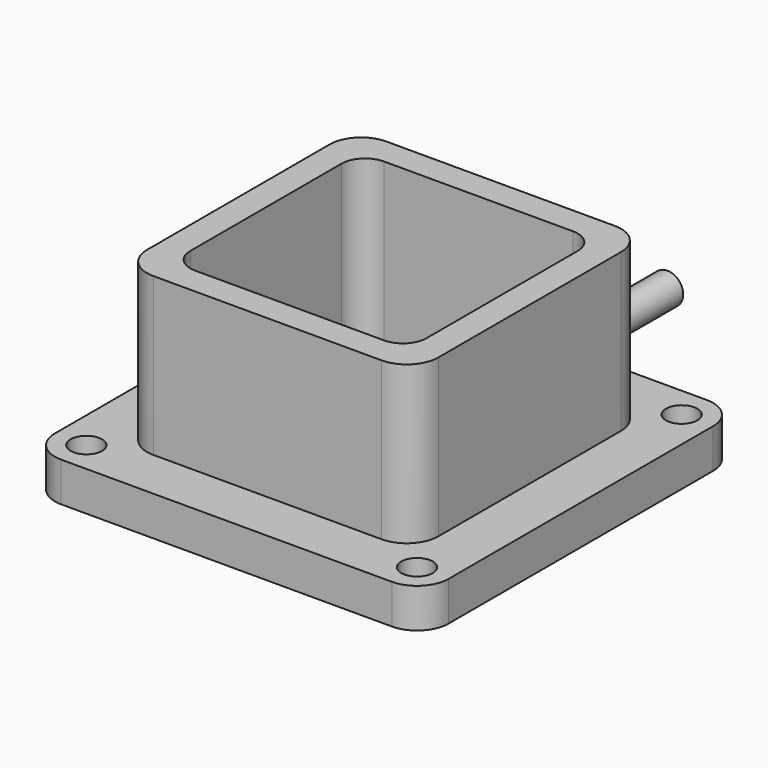
from build123d import *

# Parameters (mm, degrees)
F0_W     = 63.5
F0_H     = 63.5
F1_DEPTH = 6.35
F2_R     = 5.08
F4_D     = 5.08
F5_R     = 2.54
F6_DEPTH = 25.4
F7_W     = 46.99
F7_H     = 46.99
F7_W_2   = 38.1
F7_H_2   = 38.1
F8_DEPTH = 25.4
F9_R     = 5.08
F10_R    = 3.81


with BuildPart() as f1:
    # F0 (on Top) → F1 (new body)
    with BuildSketch(Plane.XY):
        Rectangle(F0_W, F0_H)
    extrude(amount=F1_DEPTH)

    # F2
    f2_edges = [f1.edges().sort_by_distance(p)[0] for p in [
        (-31.75, -31.75, 3.175),
        (31.75, -31.75, 3.175),
        (31.75, 31.75, 3.175),
        (-31.75, 31.75, 3.175),
    ]]
    fillet(f2_edges, radius=F2_R)

    # F4 (through all)
    with Locations(Plane.XY.offset(6.35)):
        with Locations((-26.67, 26.67), (26.67, 26.67), (26.67, -26.67), (-26.67, -26.67)):
            Hole(F4_D / 2)

    # F5 (on face) → F6 (join)
    with BuildSketch(Plane(origin=(0, 31.75, 0), x_dir=(-1, 0, 0), z_dir=(0, 1, 0))):
        with Locations((0, 3.175)):
            Circle(F5_R)
    extrude(amount=F6_DEPTH)

    # F7 (on face) → F8 (join)
    with BuildSketch(Plane.XY.offset(6.35)):
        Rectangle(F7_W, F7_H)
        Rectangle(F7_W_2, F7_H_2, mode=Mode.SUBTRACT)
    extrude(amount=F8_DEPTH)

    # F9
    f9_edges = [f1.edges().sort_by_distance(p)[0] for p in [
        (-23.495, -23.495, 19.05),
        (23.495, -23.495, 19.05),
        (23.495, 23.495, 19.05),
        (-23.495, 23.495, 19.05),
    ]]
    fillet(f9_edges, radius=F9_R)

    # F10
    f10_edges = [f1.edges().sort_by_distance(p)[0] for p in [
        (19.05, 19.05, 19.05),
        (-19.05, 19.05, 19.05),
        (-19.05, -19.05, 19.05),
        (19.05, -19.05, 19.05),
    ]]
    fillet(f10_edges, radius=F10_R)


solid = f1.part
